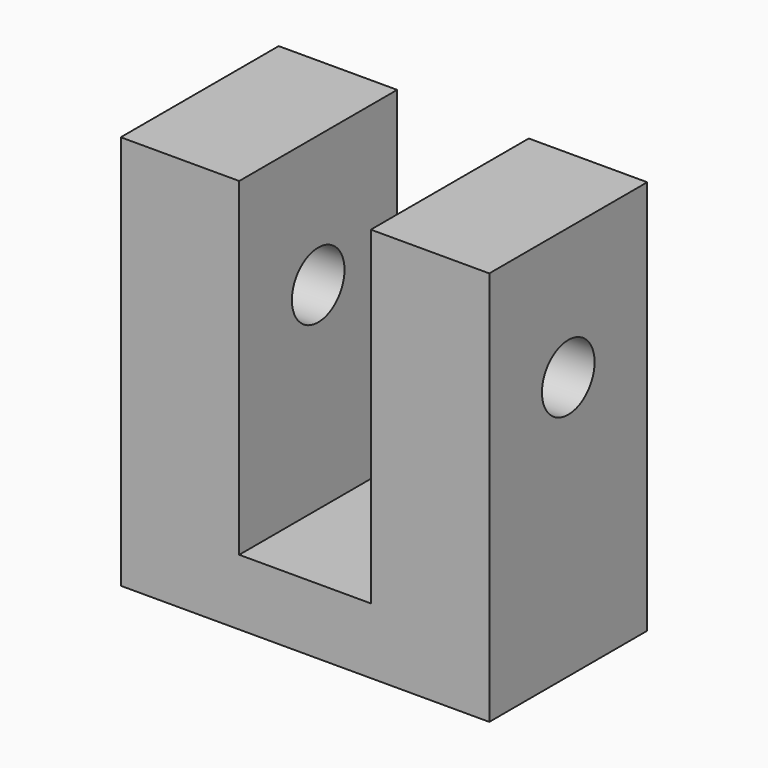
from build123d import *

# Parameters (mm, degrees)
F1_DEPTH = 3.75
F2_R     = 1.25
F3_DEPTH = 25
F4_R     = 1.25
F5_DEPTH = 5


with BuildPart() as f1:
    # F0 (on Front) → F1 (new body, symmetric)
    with BuildSketch(Plane.XZ):
        Polygon((-7, 0), (0, 0), (7, 0), (7, 15), (2.5, 15), (2.5, 2.5), (-2.5, 2.5), (-2.5, 15), (-7, 15), align=None)
    extrude(amount=F1_DEPTH, both=True)

    # F2 (on face) → F3 (cut)
    with BuildSketch(Plane.YZ.offset(7)):
        with Locations((0, 10)):
            Circle(F2_R)
    extrude(amount=-F3_DEPTH, mode=Mode.SUBTRACT)

    # F4 (on face) → F5 (cut)
    with BuildSketch(Plane(origin=(0, 0, 0), x_dir=(1, 0, 0), z_dir=(0, 0, -1))):
        with Locations((5.12, 1.25)):
            Circle(F4_R)
        with Locations((-5.12, 1.25)):
            Circle(F4_R)
    extrude(amount=-F5_DEPTH, mode=Mode.SUBTRACT)


solid = f1.part
